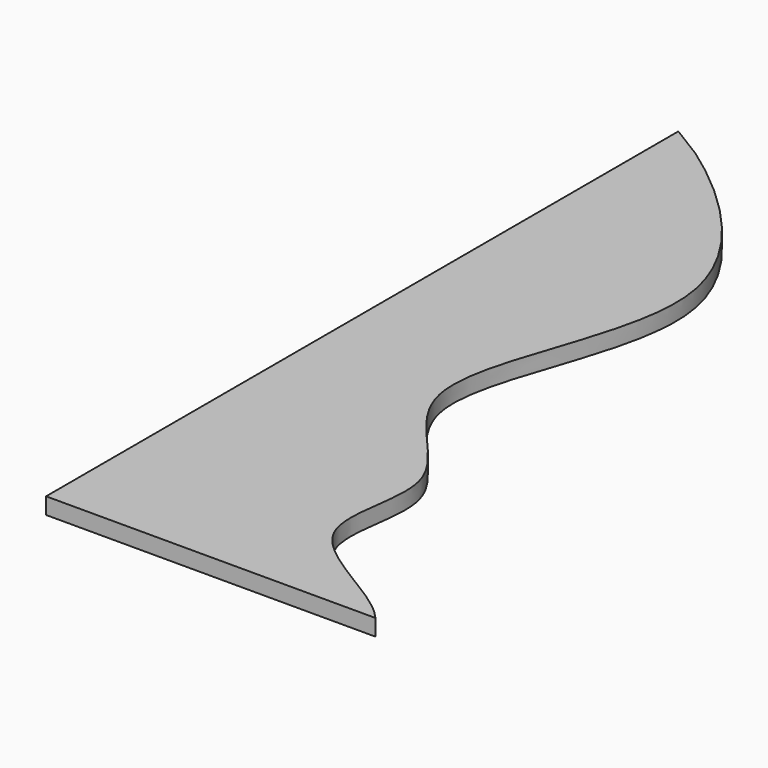
from build123d import *

# Parameters (mm, degrees)
F1_DEPTH = 6.35


with BuildPart() as f1:
    # F0 (on Top) → F1 (new body)
    with BuildSketch(Plane.XY):
        with BuildLine():
            Line((0, 304.8), (0, 0))
            Line((0, 0), (127, 0))
            add(Edge.make_bspline(
                [(0, 304.8), (9.394075247, 299.0186276837), (14.6578200296, 296.8325071427), (99.4178119872, 228.0060913972), (25.0326739707, 123.7909754538), (95.7456679987, 83.997368271), (66.1571460036, 28.7802841359), (116.3890130568, 12.6628632518), (127, 0)],
                knots=[0, 0, 0, 0, 0.1010770871, 0.302968478, 0.5235264126, 0.6896267895, 0.8341262132, 1, 1, 1, 1], degree=3))
        make_face()
    extrude(amount=F1_DEPTH)


solid = f1.part
